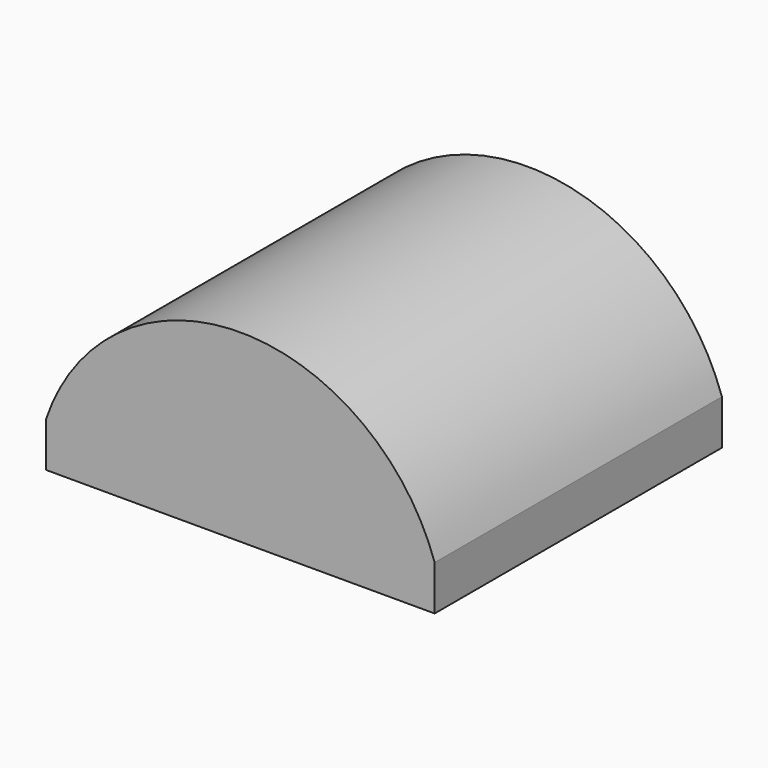
from build123d import *

# Parameters (mm, degrees)
F1_DEPTH  = 101.6
F1_FACE_W = 109.95227
F1_FACE_H = 101.6
F2_DEPTH  = 12.7


with BuildPart() as f1:
    # F0 (on Front) → F1 (new body)
    with BuildSketch(Plane.XZ):
        with BuildLine():
            Line((-60.370058, 0), (49.582213, 0))
            ThreePointArc((49.582213, 0), (-5.393922, 39.476916), (-60.370058, 0))
        make_face()
    extrude(amount=F1_DEPTH)

    # F1_face (on face) → F2 (join)
    with BuildSketch(Plane(origin=(-5.393922, -50.8, 0), x_dir=(1, 0, 0), z_dir=(0, 0, -1))):
        Rectangle(F1_FACE_W, F1_FACE_H)
    extrude(amount=F2_DEPTH)


solid = f1.part
